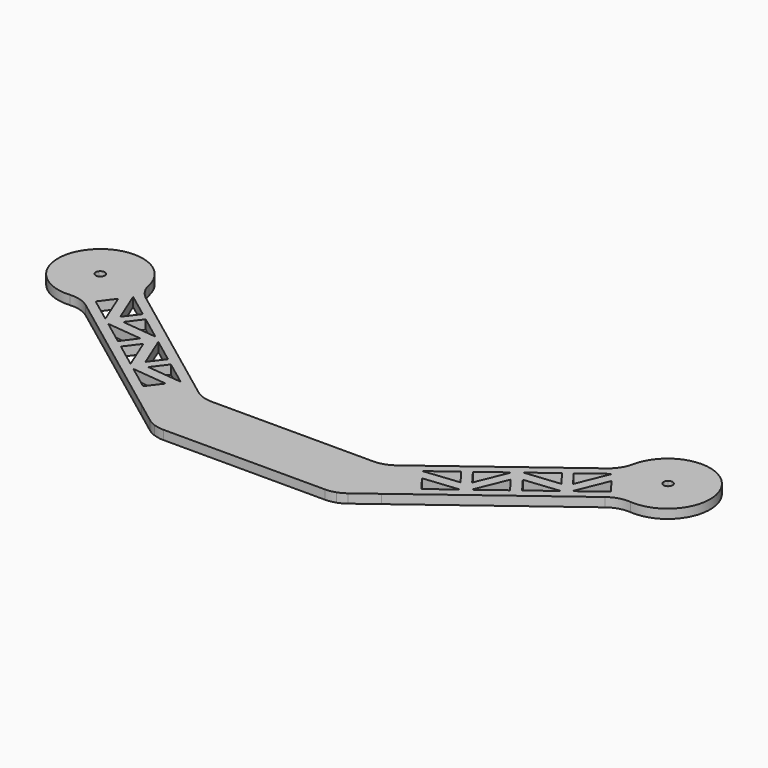
from build123d import *

# Parameters (mm, degrees)
F1_DEPTH = 3


with BuildPart() as f1:
    # F0 (on Top) → F1 (new body)
    with BuildSketch(Plane.XY):
        with BuildLine():
            Line((0, 20), (-26.666667, 20))
            ThreePointArc((-26.666667, 20), (-29.828944, 20.513167), (-32.666667, 22))
            Line((-32.666667, 22), (-30, 20))
            Line((-30, 20), (-30, 0.57191))
            ThreePointArc((-30, 0.57191), (-28.357686, 0.144014), (-26.666667, 0))
            Line((-26.666667, 0), (0, 0))
            Line((0, 0), (0, 10))
            Line((0, 10), (0, 20))
        make_face()
        with BuildLine():
            Line((26.666667, 20), (0, 20))
            Line((0, 20), (0, 10))
            Line((0, 10), (0, 0))
            Line((0, 0), (26.666667, 0))
            ThreePointArc((26.666667, 0), (28.357686, 0.144014), (30, 0.57191))
            Line((30, 0.57191), (30, 20))
            Line((30, 20), (32.666667, 22))
            ThreePointArc((32.666667, 22), (29.828944, 20.513167), (26.666667, 20))
        make_face()
        with BuildLine():
            Line((-30, 20), (-32.666667, 22))
            Line((-32.666667, 22), (-70.117305, 50.087979))
            Line((-70.117305, 50.087979), (-71.717305, 51.287979))
            Line((-71.717305, 51.287979), (-76.11797, 54.588477))
            ThreePointArc((-76.11797, 54.588477), (-78.558883, 57.226483), (-79.909473, 60.557104))
            ThreePointArc((-79.909473, 60.557104), (-104.817576, 66.113182), (-92.509473, 43.757104))
            ThreePointArc((-92.509473, 43.757104), (-88.933911, 43.393113), (-85.71797, 41.788477))
            Line((-85.71797, 41.788477), (-39.6, 7.2))
            Line((-39.6, 7.2), (-32.666667, 2))
            ThreePointArc((-32.666667, 2), (-31.387645, 1.184538), (-30, 0.57191))
            Line((-30, 0.57191), (-30, 20))
        make_face()
        Polygon((-64.226276, 29.419657), (-60.626276, 34.219657), (-56.226276, 23.419657), align=None, mode=Mode.SUBTRACT)
        Polygon((-74.7174, 37.28805), (-63.1174, 36.08805), (-66.7174, 31.28805), align=None, mode=Mode.SUBTRACT)
        Polygon((-50.3174, 31.488), (-53.9174, 26.688), (-58.3174, 37.488), align=None, mode=Mode.SUBTRACT)
        Polygon((-53.9174, 21.688), (-42.3174, 20.488), (-45.9174, 15.688), align=None, mode=Mode.SUBTRACT)
        Polygon((-39.9174, 23.688), (-51.5174, 24.888), (-47.9174, 29.688), align=None, mode=Mode.SUBTRACT)
        Polygon((-77.026276, 39.019707), (-85.026276, 45.019707), (-81.426276, 49.819707), align=None, mode=Mode.SUBTRACT)
        Polygon((-60.7174, 39.28805), (-72.3174, 40.48805), (-68.7174, 45.28805), align=None, mode=Mode.SUBTRACT)
        Polygon((-71.1174, 47.08805), (-74.7174, 42.28805), (-79.1174, 53.08805), align=None, mode=Mode.SUBTRACT)
        with BuildLine():
            ThreePointArc((-92.803023, 58.984095), (-92.361383, 58.454915), (-92.203023, 57.784095))
            ThreePointArc((-92.203023, 57.784095), (-92.279998, 57.309753), (-92.503023, 56.884095))
            ThreePointArc((-92.503023, 56.884095), (-93.490891, 56.299171), (-94.603023, 56.584095))
            ThreePointArc((-94.603023, 56.584095), (-95.187948, 57.571963), (-94.903023, 58.684095))
            ThreePointArc((-94.903023, 58.684095), (-93.915155, 59.269019), (-92.803023, 58.984095))
        make_face(mode=Mode.SUBTRACT)
        with BuildLine():
            Line((70.117305, 50.087979), (32.666667, 22))
            Line((32.666667, 22), (30, 20))
            Line((30, 20), (30, 0.57191))
            ThreePointArc((30, 0.57191), (31.387645, 1.184538), (32.666667, 2))
            Line((32.666667, 2), (39.6, 7.2))
            Line((39.6, 7.2), (85.71797, 41.788477))
            ThreePointArc((85.71797, 41.788477), (88.933911, 43.393113), (92.509473, 43.757104))
            ThreePointArc((92.509473, 43.757104), (104.817576, 66.113182), (79.909473, 60.557104))
            ThreePointArc((79.909473, 60.557104), (78.558883, 57.226483), (76.11797, 54.588477))
            Line((76.11797, 54.588477), (71.717305, 51.287979))
            Line((71.717305, 51.287979), (70.117305, 50.087979))
        make_face()
        Polygon((42.3174, 20.488), (53.9174, 21.688), (45.9174, 15.688), align=None, mode=Mode.SUBTRACT)
        Polygon((47.9174, 29.688), (51.5174, 24.888), (39.9174, 23.688), align=None, mode=Mode.SUBTRACT)
        Polygon((60.626276, 34.219657), (64.226276, 29.419657), (56.226276, 23.419657), align=None, mode=Mode.SUBTRACT)
        Polygon((58.3174, 37.488), (53.9174, 26.688), (50.3174, 31.488), align=None, mode=Mode.SUBTRACT)
        Polygon((74.7174, 37.28805), (66.7174, 31.28805), (63.1174, 36.08805), align=None, mode=Mode.SUBTRACT)
        Polygon((68.7174, 45.28805), (72.3174, 40.48805), (60.7174, 39.28805), align=None, mode=Mode.SUBTRACT)
        Polygon((81.426276, 49.819707), (85.026276, 45.019707), (77.026276, 39.019707), align=None, mode=Mode.SUBTRACT)
        Polygon((79.1174, 53.08805), (74.7174, 42.28805), (71.1174, 47.08805), align=None, mode=Mode.SUBTRACT)
        with BuildLine():
            ThreePointArc((94.903023, 58.684095), (95.126048, 58.258437), (95.203023, 57.784095))
            ThreePointArc((95.203023, 57.784095), (95.044664, 57.113275), (94.603023, 56.584095))
            ThreePointArc((94.603023, 56.584095), (93.490891, 56.299171), (92.503023, 56.884095))
            ThreePointArc((92.503023, 56.884095), (92.218099, 57.996227), (92.803023, 58.984095))
            ThreePointArc((92.803023, 58.984095), (93.915155, 59.269019), (94.903023, 58.684095))
        make_face(mode=Mode.SUBTRACT)
        with BuildLine():
            Line((0, 20), (-26.666667, 20))
            ThreePointArc((-26.666667, 20), (-29.828944, 20.513167), (-32.666667, 22))
            Line((-32.666667, 22), (-30, 20))
            Line((-30, 20), (-30, 0.57191))
            ThreePointArc((-30, 0.57191), (-28.357686, 0.144014), (-26.666667, 0))
            Line((-26.666667, 0), (0, 0))
            Line((0, 0), (0, 10))
            Line((0, 10), (0, 20))
        make_face()
    extrude(amount=F1_DEPTH)


solid = f1.part
